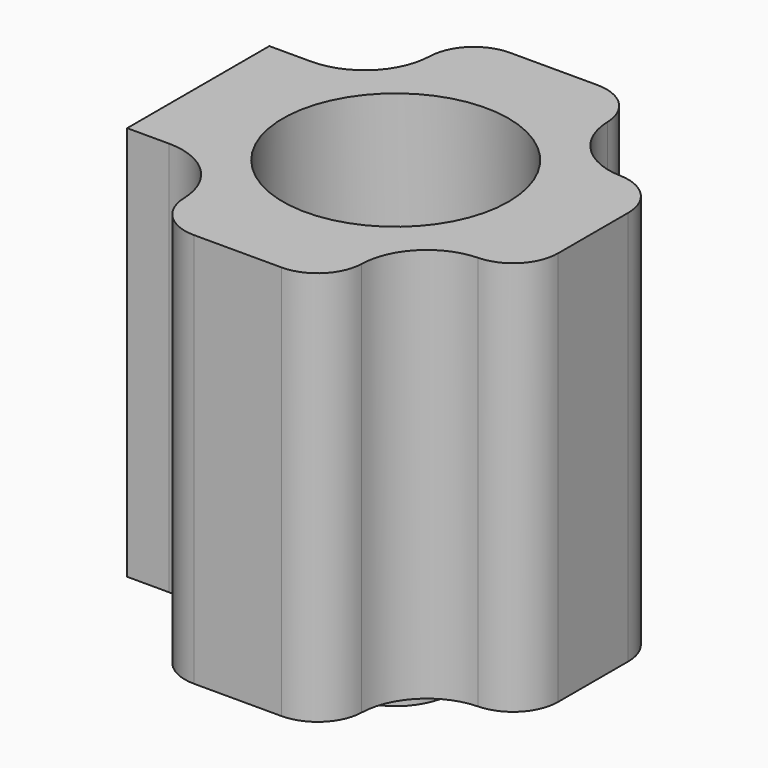
from build123d import *

# Parameters (mm, degrees)
F0_W      = 44.45
F0_H      = 44.45
F1_DEPTH  = 44.45
F2_R      = 10.31875
F3_DEPTH  = 31.75
F4_R      = 7.5
F5_DEPTH  = 50.8
F6_R      = 5.08
F8_DEPTH  = 50.8
F9_R      = 6.35
F10_DEPTH = 6.35
F11_R     = 12.7
F12_DEPTH = 25.4


with BuildPart() as f1:
    # F0 (on Top) → F1 (new body)
    with BuildSketch(Plane.XY):
        Rectangle(F0_W, F0_H)
    extrude(amount=F1_DEPTH)

    # F2 (on face) → F3 (cut)
    with BuildSketch(Plane.XY.offset(44.45)):
        Circle(F2_R)
    extrude(amount=-F3_DEPTH, mode=Mode.SUBTRACT)

    # F4 (on face) → F5 (cut)
    with BuildSketch(Plane.XY.offset(44.45)):
        with Locations((-17.5, 17.5)):
            Circle(F4_R)
        with Locations((17.5, 17.5)):
            Circle(F4_R)
        with Locations((17.5, -17.5)):
            Circle(F4_R)
        with Locations((-17.5, -17.5)):
            Circle(F4_R)
    extrude(amount=-F5_DEPTH, mode=Mode.SUBTRACT)

    # F6
    f6_edges = [f1.edges().sort_by_distance(p)[0] for p in [
        (-11.675537, -22.225, 22.225),
        (11.675537, -22.225, 22.225),
        (22.225, -11.675537, 22.225),
        (-11.675537, 22.225, 22.225),
        (11.675537, 22.225, 22.225),
        (22.225, 11.675537, 22.225),
    ]]
    fillet(f6_edges, radius=F6_R)

    # F7 (on face) → F8 (cut)
    with BuildSketch(Plane.XY.offset(44.45)):
        Polygon((-22.225, 10), (-17.5, 10), (-22.225, 11.6755365054), align=None)
        Polygon((-22.225, -12.5695262104), (-17.5, -10), (-22.225, -10), align=None)
    extrude(amount=-F8_DEPTH, mode=Mode.SUBTRACT)

    # F9 (on face) → F10 (join)
    with BuildSketch(Plane(origin=(0, 0, 0), x_dir=(1, 0, 0), z_dir=(0, 0, -1))):
        Circle(F9_R)
    extrude(amount=F10_DEPTH)

    # F11 (on face) → F12 (cut)
    with BuildSketch(Plane.XY.offset(44.45)):
        Circle(F11_R)
    extrude(amount=-F12_DEPTH, mode=Mode.SUBTRACT)


solid = f1.part
